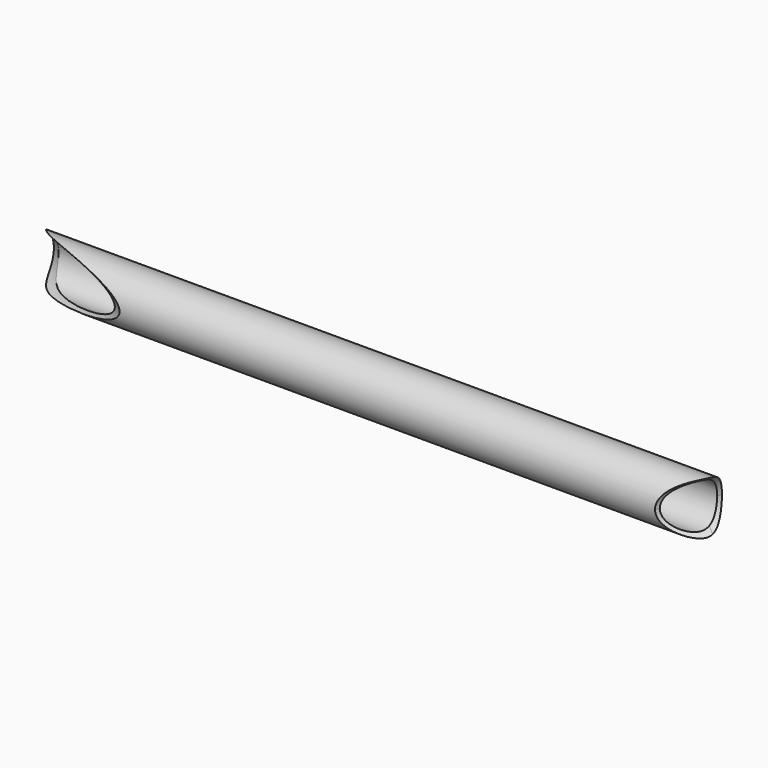
from build123d import *

# Parameters (mm, degrees)
F0_R     = 7
F0_R_2   = 6
F1_DEPTH = 188.96
F4_R     = 8
F5_DEPTH = 35
F9_DEPTH = 15


with BuildPart() as f1:
    # F0 (on Right) → F1 (new body)
    with BuildSketch(Plane.YZ):
        Circle(F0_R)
        Circle(F0_R_2, mode=Mode.SUBTRACT)
    extrude(amount=F1_DEPTH)

    # F4 (on face) → F5 (cut, symmetric)
    with BuildSketch(Plane(origin=(0, 0, 0), x_dir=(-0.4365976739, -0.899656863, 0), z_dir=(-0.899656863, 0.4365976739, 0))):
        Circle(F4_R)
    extrude(amount=F5_DEPTH, both=True, mode=Mode.SUBTRACT)

    # F8 (on line) → F9 (cut, symmetric)
    with BuildSketch(Plane(origin=(36.0190882591, 74.2212381898, 0), x_dir=(-0.899656863, 0.4365976739, 0), z_dir=(0.4365976739, 0.899656863, 0))):
        with BuildLine():
            ThreePointArc((-175.5327409971, 5.777498639), (-173.1401287256, -7.3576029162), (-161.999160829, 0))
            ThreePointArc((-161.999160829, 0), (-166.8581929324, 7.3576029162), (-175.5327409971, 5.777498639))
        make_face()
    extrude(amount=F9_DEPTH, both=True, mode=Mode.SUBTRACT)


solid = f1.part
